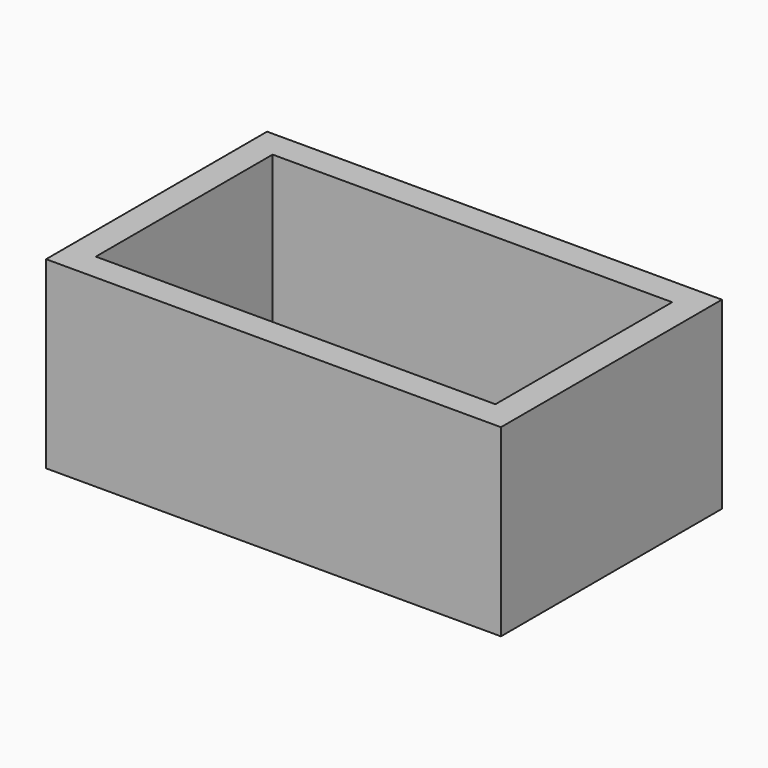
from build123d import *

# Parameters (mm, degrees)
F1_DEPTH = 20
F2_DEPTH = 3


with BuildPart() as f1:
    # F0 (on Top) → F1 (new body)
    with BuildSketch(Plane.XY):
        Polygon((24.7, 14), (0, 14), (-24.7, 14), (-24.7, -6), (-24.7, -9.427755), (-24.7, -13), (-24.7, -16), (-21.7, -16), (21.7, -16), (24.7, -16), (24.7, -13), (24.7, -9.427755), (24.7, -6), align=None)
        Polygon((21.7, -13), (-21.7, -13), (-21.7, 11), (0, 11), (21.7, 11), align=None, mode=Mode.SUBTRACT)
    extrude(amount=F1_DEPTH)

    # F0 (on Top) → F2 (join)
    with BuildSketch(Plane.XY):
        Polygon((-21.7, 11), (-21.7, -13), (21.7, -13), (21.7, 11), (0, 11), align=None)
    extrude(amount=F2_DEPTH)


solid = f1.part
